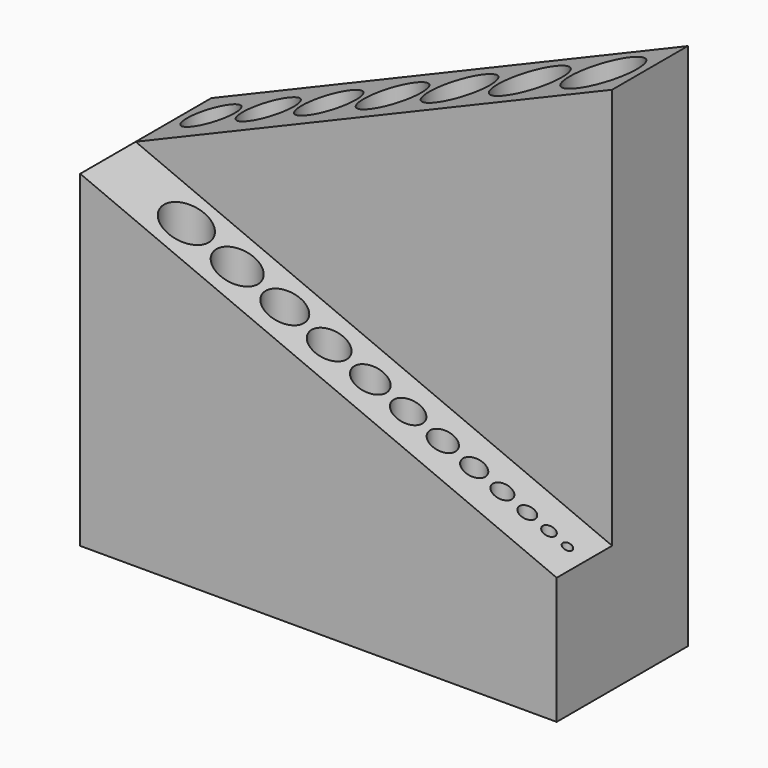
from build123d import *

# Parameters (mm, degrees)
F0_W     = 73.5817615905
F0_H     = 25.3
F0_R     = 3.45
F0_R_2   = 3.2
F0_R_3   = 2.95
F0_R_4   = 2.7
F0_R_5   = 2.45
F0_R_6   = 2.2
F0_R_7   = 1.95
F0_R_8   = 1.7
F0_R_9   = 1.45
F0_R_10  = 1.2
F0_R_11  = 0.95
F0_R_12  = 0.7
F0_R_13  = 3.7
F0_R_14  = 3.95
F0_R_15  = 4.2
F0_R_16  = 4.45
F0_R_17  = 4.7
F0_R_18  = 4.95
F0_R_19  = 5.2
F1_DEPTH = 80
F3_DEPTH = 0.4
F4_DEPTH = 10.7
F6_DEPTH = 25
F8_DEPTH = 1.6


with BuildPart() as f1:
    # F0 (on Top) → F1 (new body)
    with BuildSketch(Plane.XY):
        with Locations((9.5591192048, 9.7144579899)):
            Rectangle(F0_W, F0_H)
        with Locations((-15.2, 2.5144579899)):
            Circle(F0_R, mode=Mode.SUBTRACT)
        with Locations((-7.35, 2.5144579899)):
            Circle(F0_R_2, mode=Mode.SUBTRACT)
        with Locations((0, 2.5144579899)):
            Circle(F0_R_3, mode=Mode.SUBTRACT)
        with Locations((6.85, 2.5144579899)):
            Circle(F0_R_4, mode=Mode.SUBTRACT)
        with Locations((13.2, 2.5144579899)):
            Circle(F0_R_5, mode=Mode.SUBTRACT)
        with Locations((19.05, 2.5144579899)):
            Circle(F0_R_6, mode=Mode.SUBTRACT)
        with Locations((24.4, 2.5144579899)):
            Circle(F0_R_7, mode=Mode.SUBTRACT)
        with Locations((29.25, 2.5144579899)):
            Circle(F0_R_8, mode=Mode.SUBTRACT)
        with Locations((33.6, 2.5144579899)):
            Circle(F0_R_9, mode=Mode.SUBTRACT)
        with Locations((37.45, 2.5144579899)):
            Circle(F0_R_10, mode=Mode.SUBTRACT)
        with Locations((40.8, 2.5144579899)):
            Circle(F0_R_11, mode=Mode.SUBTRACT)
        with Locations((43.65, 2.5144579899)):
            Circle(F0_R_12, mode=Mode.SUBTRACT)
        with Locations((-21.5317615905, 15.1644579899)):
            Circle(F0_R_13, mode=Mode.SUBTRACT)
        with Locations((-12.6817615905, 15.1644579899)):
            Circle(F0_R_14, mode=Mode.SUBTRACT)
        with Locations((-3.3317615905, 15.1644579899)):
            Circle(F0_R_15, mode=Mode.SUBTRACT)
        with Locations((6.5182384095, 15.1644579899)):
            Circle(F0_R_16, mode=Mode.SUBTRACT)
        with Locations((16.8682384095, 15.1644579899)):
            Circle(F0_R_17, mode=Mode.SUBTRACT)
        with Locations((27.7182384095, 15.1644579899)):
            Circle(F0_R_18, mode=Mode.SUBTRACT)
        with Locations((39.0682384095, 15.1644579899)):
            Circle(F0_R_19, mode=Mode.SUBTRACT)
    extrude(amount=F1_DEPTH)

    # F2 (on face) → F4 (cut)
    with BuildSketch(Plane.XZ.offset(2.9355420101)):
        Polygon((-27.2317615905, 80), (-27.2317615905, 49), (46.35, 18), (46.35, 80), align=None)
    extrude(amount=-F4_DEPTH, mode=Mode.SUBTRACT)

    # F5 (on face) → F6 (cut)
    with BuildSketch(Plane(origin=(0, 22.3644579899, 0), x_dir=(-1, 0, 0), z_dir=(0, 1, 0))):
        Polygon((-46.35, 80), (27.2317615905, 49), (27.2317615905, 80), align=None)
    extrude(amount=-F6_DEPTH, mode=Mode.SUBTRACT)



with BuildPart() as f3:
    # F0 (on Top) → F3 (new body)
    with BuildSketch(Plane.XY):
        with Locations((9.5591192048, 9.7144579899)):
            Rectangle(F0_W, F0_H)
        with Locations((-15.2, 2.5144579899)):
            Circle(F0_R, mode=Mode.SUBTRACT)
        with Locations((-7.35, 2.5144579899)):
            Circle(F0_R_2, mode=Mode.SUBTRACT)
        with Locations((0, 2.5144579899)):
            Circle(F0_R_3, mode=Mode.SUBTRACT)
        with Locations((6.85, 2.5144579899)):
            Circle(F0_R_4, mode=Mode.SUBTRACT)
        with Locations((13.2, 2.5144579899)):
            Circle(F0_R_5, mode=Mode.SUBTRACT)
        with Locations((19.05, 2.5144579899)):
            Circle(F0_R_6, mode=Mode.SUBTRACT)
        with Locations((24.4, 2.5144579899)):
            Circle(F0_R_7, mode=Mode.SUBTRACT)
        with Locations((29.25, 2.5144579899)):
            Circle(F0_R_8, mode=Mode.SUBTRACT)
        with Locations((33.6, 2.5144579899)):
            Circle(F0_R_9, mode=Mode.SUBTRACT)
        with Locations((37.45, 2.5144579899)):
            Circle(F0_R_10, mode=Mode.SUBTRACT)
        with Locations((40.8, 2.5144579899)):
            Circle(F0_R_11, mode=Mode.SUBTRACT)
        with Locations((43.65, 2.5144579899)):
            Circle(F0_R_12, mode=Mode.SUBTRACT)
        with Locations((-21.5317615905, 15.1644579899)):
            Circle(F0_R_13, mode=Mode.SUBTRACT)
        with Locations((-12.6817615905, 15.1644579899)):
            Circle(F0_R_14, mode=Mode.SUBTRACT)
        with Locations((-3.3317615905, 15.1644579899)):
            Circle(F0_R_15, mode=Mode.SUBTRACT)
        with Locations((6.5182384095, 15.1644579899)):
            Circle(F0_R_16, mode=Mode.SUBTRACT)
        with Locations((16.8682384095, 15.1644579899)):
            Circle(F0_R_17, mode=Mode.SUBTRACT)
        with Locations((27.7182384095, 15.1644579899)):
            Circle(F0_R_18, mode=Mode.SUBTRACT)
        with Locations((39.0682384095, 15.1644579899)):
            Circle(F0_R_19, mode=Mode.SUBTRACT)
        with Locations((39.0682384095, 15.1644579899)):
            Circle(F0_R_19)
        with Locations((27.7182384095, 15.1644579899)):
            Circle(F0_R_18)
        with Locations((16.8682384095, 15.1644579899)):
            Circle(F0_R_17)
        with Locations((6.5182384095, 15.1644579899)):
            Circle(F0_R_16)
        with Locations((-3.3317615905, 15.1644579899)):
            Circle(F0_R_15)
        with Locations((-12.6817615905, 15.1644579899)):
            Circle(F0_R_14)
        with Locations((-21.5317615905, 15.1644579899)):
            Circle(F0_R_13)
        with Locations((-15.2, 2.5144579899)):
            Circle(F0_R)
        with Locations((-7.35, 2.5144579899)):
            Circle(F0_R_2)
        with Locations((0, 2.5144579899)):
            Circle(F0_R_3)
        with Locations((6.85, 2.5144579899)):
            Circle(F0_R_4)
        with Locations((13.2, 2.5144579899)):
            Circle(F0_R_5)
        with Locations((19.05, 2.5144579899)):
            Circle(F0_R_6)
        with Locations((24.4, 2.5144579899)):
            Circle(F0_R_7)
        with Locations((29.25, 2.5144579899)):
            Circle(F0_R_8)
        with Locations((33.6, 2.5144579899)):
            Circle(F0_R_9)
        with Locations((37.45, 2.5144579899)):
            Circle(F0_R_10)
        with Locations((40.8, 2.5144579899)):
            Circle(F0_R_11)
        with Locations((43.65, 2.5144579899)):
            Circle(F0_R_12)
    extrude(amount=F3_DEPTH)


with BuildPart() as f1_1:
    add(f1.part)

    add(f3.part)  # F8 merges F3
    # F7 (on face) → F8 (join)
    with BuildSketch(Plane(origin=(0, 0, 0), x_dir=(1, 0, 0), z_dir=(0, 0, -1))):
        with BuildLine():
            Line((-19.1681346587, -3.8992594928), (-27.2317615905, -3.8992594928))
            Line((-27.2317615905, -3.8992594928), (-27.2317615905, -14.6005405113))
            Line((-27.2317615905, -14.6005405113), (-19.1681346587, -14.6005405113))
            ThreePointArc((-19.1681346587, -14.6005405113), (-14.9681346587, -10.4005405113), (-10.7681346587, -14.6005405113))
            Line((-10.7681346587, -14.6005405113), (-6.904507727, -14.6005405113))
            ThreePointArc((-6.904507727, -14.6005405113), (-2.704507727, -10.4005405113), (1.495492273, -14.6005405113))
            Line((1.495492273, -14.6005405113), (5.3591192048, -14.6005405113))
            ThreePointArc((5.3591192048, -14.6005405113), (9.5591192048, -10.4005405113), (13.7591192048, -14.6005405113))
            Line((13.7591192048, -14.6005405113), (17.6227461365, -14.6005405113))
            ThreePointArc((17.6227461365, -14.6005405113), (21.8227461365, -10.4005405113), (26.0227461365, -14.6005405113))
            Line((26.0227461365, -14.6005405113), (29.8863730683, -14.6005405113))
            ThreePointArc((29.8863730683, -14.6005405113), (34.0863730683, -10.4005405113), (38.2863730683, -14.6005405113))
            Line((38.2863730683, -14.6005405113), (46.35, -14.6005405113))
            Line((46.35, -14.6005405113), (46.35, -3.8992594928))
            Line((46.35, -3.8992594928), (38.2863730683, -3.8992594928))
            ThreePointArc((38.2863730683, -3.8992594928), (34.0863730683, -8.0992594928), (29.8863730683, -3.8992594928))
            Line((29.8863730683, -3.8992594928), (26.0227461365, -3.8992594928))
            ThreePointArc((26.0227461365, -3.8992594928), (21.8227461365, -8.0992594928), (17.6227461365, -3.8992594928))
            Line((17.6227461365, -3.8992594928), (13.7591192048, -3.8992594928))
            ThreePointArc((13.7591192048, -3.8992594928), (9.5591192048, -8.0992594928), (5.3591192048, -3.8992594928))
            Line((5.3591192048, -3.8992594928), (1.495492273, -3.8992594928))
            ThreePointArc((1.495492273, -3.8992594928), (-2.704507727, -8.0992594928), (-6.904507727, -3.8992594928))
            Line((-6.904507727, -3.8992594928), (-10.7681346587, -3.8992594928))
            ThreePointArc((-10.7681346587, -3.8992594928), (-14.9681346587, -8.0992594928), (-19.1681346587, -3.8992594928))
        make_face()
        with BuildLine():
            Line((46.35, 2.9355420101), (-27.2317615905, 2.9355420101))
            Line((-27.2317615905, 2.9355420101), (-27.2317615905, -3.8992594928))
            Line((-27.2317615905, -3.8992594928), (-19.1681346587, -3.8992594928))
            ThreePointArc((-19.1681346587, -3.8992594928), (-14.9681346587, 0.3007405072), (-10.7681346587, -3.8992594928))
            Line((-10.7681346587, -3.8992594928), (-6.904507727, -3.8992594928))
            ThreePointArc((-6.904507727, -3.8992594928), (-2.704507727, 0.3007405072), (1.495492273, -3.8992594928))
            Line((1.495492273, -3.8992594928), (5.3591192048, -3.8992594928))
            ThreePointArc((5.3591192048, -3.8992594928), (9.5591192048, 0.3007405072), (13.7591192048, -3.8992594928))
            Line((13.7591192048, -3.8992594928), (17.6227461365, -3.8992594928))
            ThreePointArc((17.6227461365, -3.8992594928), (21.8227461365, 0.3007405072), (26.0227461365, -3.8992594928))
            Line((26.0227461365, -3.8992594928), (29.8863730683, -3.8992594928))
            ThreePointArc((29.8863730683, -3.8992594928), (34.0863730683, 0.3007405072), (38.2863730683, -3.8992594928))
            Line((38.2863730683, -3.8992594928), (46.35, -3.8992594928))
            Line((46.35, -3.8992594928), (46.35, 2.9355420101))
        make_face()
        with BuildLine():
            Line((-19.1681346587, -14.6005405113), (-27.2317615905, -14.6005405113))
            Line((-27.2317615905, -14.6005405113), (-27.2317615905, -22.3644579899))
            Line((-27.2317615905, -22.3644579899), (46.35, -22.3644579899))
            Line((46.35, -22.3644579899), (46.35, -14.6005405113))
            Line((46.35, -14.6005405113), (38.2863730683, -14.6005405113))
            ThreePointArc((38.2863730683, -14.6005405113), (34.0863730683, -18.8005405113), (29.8863730683, -14.6005405113))
            Line((29.8863730683, -14.6005405113), (26.0227461365, -14.6005405113))
            ThreePointArc((26.0227461365, -14.6005405113), (21.8227461365, -18.8005405113), (17.6227461365, -14.6005405113))
            Line((17.6227461365, -14.6005405113), (13.7591192048, -14.6005405113))
            ThreePointArc((13.7591192048, -14.6005405113), (9.5591192048, -18.8005405113), (5.3591192048, -14.6005405113))
            Line((5.3591192048, -14.6005405113), (1.495492273, -14.6005405113))
            ThreePointArc((1.495492273, -14.6005405113), (-2.704507727, -18.8005405113), (-6.904507727, -14.6005405113))
            Line((-6.904507727, -14.6005405113), (-10.7681346587, -14.6005405113))
            ThreePointArc((-10.7681346587, -14.6005405113), (-14.9681346587, -18.8005405113), (-19.1681346587, -14.6005405113))
        make_face()
    extrude(amount=F8_DEPTH)


solid = f1_1.part
